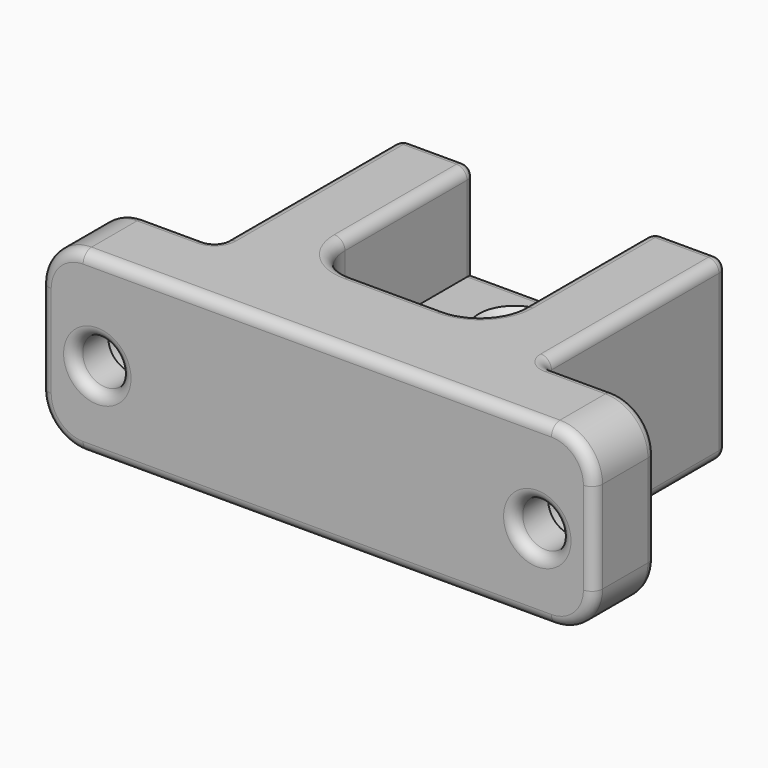
from build123d import *

# Parameters (mm, degrees)
F0_W           = 156
F0_H           = 50
F1_DEPTH       = 87
F2_W           = 32
F2_H           = 65
F3_DEPTH       = 50
F4_W           = 50
F4_H           = 58
F5_DEPTH       = 27
F7_D           = 13
F7_CBORE_D     = 18
F7_CBORE_DEPTH = 10
F9_D           = 13
F9_CSINK_D     = 20
F9_CSINK_ANGLE = 90
F10_R          = 12
F11_R          = 3


with BuildPart() as f1:
    # F0 (on Front) → F1 (new body)
    with BuildSketch(Plane.XZ):
        with Locations((78, 25)):
            Rectangle(F0_W, F0_H)
    extrude(amount=F1_DEPTH)

    # F2 (on face) → F3 (cut, through all)
    with BuildSketch(Plane.XY.offset(50)):
        with Locations((140, -32.5)):
            Rectangle(F2_W, F2_H)
        with Locations((16, -32.5)):
            Rectangle(F2_W, F2_H)
    extrude(amount=-F3_DEPTH, mode=Mode.SUBTRACT)

    # F4 (on face) → F5 (cut)
    with BuildSketch(Plane.XY.offset(50)):
        with Locations((78, -29)):
            Rectangle(F4_W, F4_H)
    extrude(amount=-F5_DEPTH, mode=Mode.SUBTRACT)

    # F7 (through all)
    with Locations(Plane(origin=(0, -65, 0), x_dir=(-1, 0, 0), z_dir=(0, 1, 0))):
        with Locations((-140, 23), (-16, 23)):
            CounterBoreHole(F7_D / 2, F7_CBORE_D / 2, F7_CBORE_DEPTH)

    # F9 (through all)
    with Locations(Plane.XY.offset(23)):
        with Locations((76, -15), (76, -42)):
            CounterSinkHole(F9_D / 2, F9_CSINK_D / 2, counter_sink_angle=F9_CSINK_ANGLE)

    # F10
    f10_edges = [f1.edges().sort_by_distance(p)[0] for p in [
        (156, -76, 50),
        (156, -76, 0),
        (0, -76, 50),
        (0, -76, 0),
        (53, -58, 36.5),
        (103, -58, 36.5),
    ]]
    fillet(f10_edges, radius=F10_R)

    # F11
    f11_edges = [f1.edges().sort_by_distance(p)[0] for p in [
        (124, 0, 25),
        (78, 0, 0),
        (32, 0, 25),
        (42.5, 0, 50),
        (53, 0, 36.5),
        (78, 0, 23),
        (103, 0, 36.5),
        (113.5, 0, 50),
        (103, -23, 50),
        (99.485281, -54.485281, 50),
        (78, -58, 50),
        (124, -32.5, 50),
        (56.514719, -54.485281, 50),
        (134, -65, 50),
        (53, -23, 50),
        (144, -76, 50),
        (78, -87, 50),
        (32, -32.5, 50),
        (12, -76, 50),
        (22, -65, 50),
        (32, -65, 25),
        (32, -32.5, 0),
        (124, -65, 25),
        (124, -32.5, 0),
        (22, -65, 0),
        (12, -76, 0),
        (78, -87, 0),
        (144, -76, 0),
        (134, -65, 0),
        (69.5, -42, 0),
        (69.5, -15, 0),
        (0, -87, 25),
        (3.514719, -87, 46.485281),
        (3.514719, -87, 3.514719),
        (152.485281, -87, 46.485281),
        (152.485281, -87, 3.514719),
        (156, -87, 25),
        (22.5, -87, 23),
        (146.5, -87, 23),
    ]]
    fillet(f11_edges, radius=F11_R)


solid = f1.part
